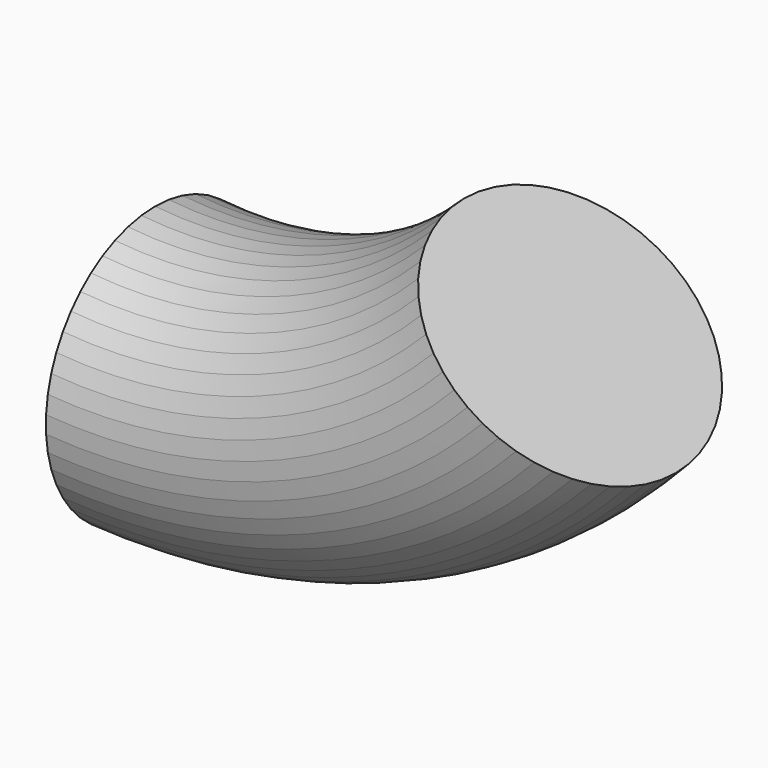
from build123d import *


with BuildPart() as f2:
    # F2: sweep along a path in F1
    with BuildLine(Plane.XZ) as f2_path:
        ThreePointArc((0, 0), (33.221576, 4.75275), (61.213464, 23.265339))
    # F0 (on Right) → F2 (sweep)
    with BuildSketch(Plane.YZ):
        Polygon((2.528285, 19.99869), (0.001849, 20.157872), (-2.524617, 19.999153), (-5.011268, 19.525035), (-7.418889, 18.742996), (-9.709509, 17.665369), (-11.847004, 16.309148), (-13.797666, 14.695722), (-15.530729, 12.850536), (-17.018864, 10.802689), (-18.238601, 8.584477), (-19.170704, 6.230883), (-19.800474, 3.779024), (-20.117979, 1.267568), (-20.118211, -1.263878), (-19.801167, -3.775393), (-19.171847, -6.227367), (-18.240175, -8.581132), (-17.020845, -10.799567), (-15.533086, -12.847687), (-13.800361, -14.693191), (-11.849996, -16.306975), (-9.712749, -17.663588), (-7.422326, -18.741635), (-5.014849, -19.524116), (-2.528285, -19.99869), (-0.001849, -20.157872), (2.524617, -19.999153), (5.011268, -19.525035), (7.418889, -18.742996), (9.709509, -17.665369), (11.847004, -16.309148), (13.797666, -14.695722), (15.530729, -12.850536), (17.018864, -10.802689), (18.238601, -8.584477), (19.170704, -6.230883), (19.800474, -3.779024), (20.117979, -1.267568), (20.118211, 1.263878), (19.801167, 3.775393), (19.171847, 6.227367), (18.240175, 8.581132), (17.020845, 10.799567), (15.533086, 12.847687), (13.800361, 14.693191), (11.849996, 16.306975), (9.712749, 17.663588), (7.422326, 18.741635), (5.014849, 19.524116), align=None)
    sweep(path=f2_path.line)


solid = f2.part
